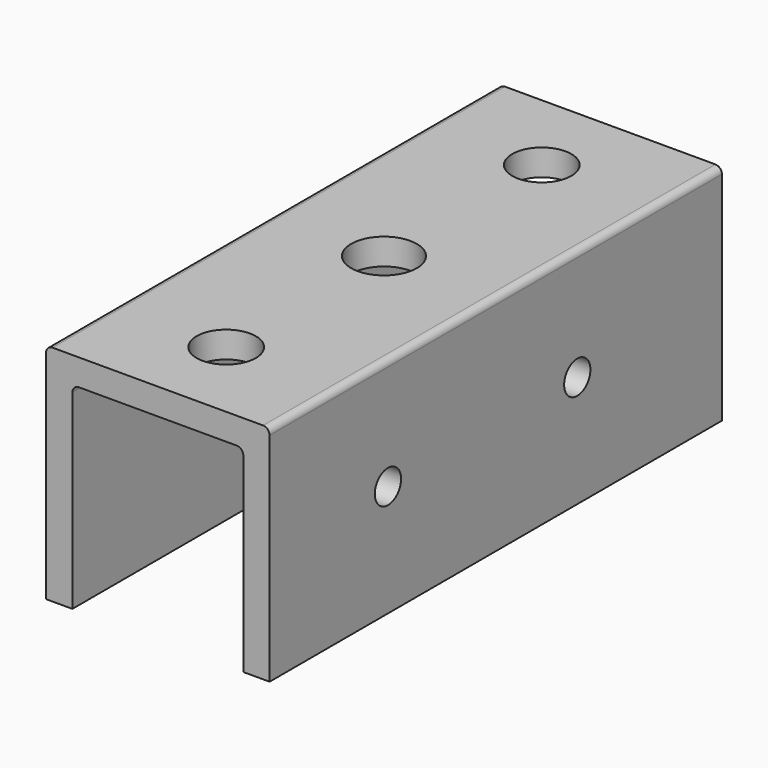
from build123d import *

# Parameters (mm, degrees)
F1_DEPTH = 68.2625
F2_R     = 7.9375
F2_R_2   = 7.14375
F2_R_3   = 7.1501
F3_DEPTH = 25.4
F4_R     = 3.96875
F5_DEPTH = 25.4


with BuildPart() as f1:
    # F0 (on Front) → F1 (new body, symmetric)
    with BuildSketch(Plane.XZ):
        with BuildLine():
            Line((-19.05, 20.6375), (19.05, 20.6375))
            ThreePointArc((19.05, 20.6375), (20.172532, 20.172532), (20.6375, 19.05))
            Line((20.6375, 19.05), (20.6375, -20.6375))
            Line((20.6375, -20.6375), (20.6375, -26.9875))
            Line((20.6375, -26.9875), (26.9875, -26.9875))
            Line((26.9875, -26.9875), (26.9875, 25.4))
            ThreePointArc((26.9875, 25.4), (26.522532, 26.522532), (25.4, 26.9875))
            Line((25.4, 26.9875), (-25.4, 26.9875))
            ThreePointArc((-25.4, 26.9875), (-26.522532, 26.522532), (-26.9875, 25.4))
            Line((-26.9875, 25.4), (-26.9875, -26.9875))
            Line((-26.9875, -26.9875), (-20.6375, -26.9875))
            Line((-20.6375, -26.9875), (-20.6375, -20.6375))
            Line((-20.6375, -20.6375), (-20.6375, 19.05))
            ThreePointArc((-20.6375, 19.05), (-20.172532, 20.172532), (-19.05, 20.6375))
        make_face()
    extrude(amount=F1_DEPTH, both=True)

    # F2 (on face) → F3 (cut)
    with BuildSketch(Plane.XY.offset(26.9875)):
        Circle(F2_R)
        with Locations((0, 47.625)):
            Circle(F2_R_2)
        with Locations((0, -47.625)):
            Circle(F2_R_3)
    extrude(amount=-F3_DEPTH, mode=Mode.SUBTRACT)

    # F4 (on face) → F5 (cut)
    with BuildSketch(Plane.YZ.offset(26.9875)):
        with Locations((-32.54375, 0)):
            Circle(F4_R)
        with Locations((24.60625, 0)):
            Circle(F4_R)
    extrude(amount=-F5_DEPTH, mode=Mode.SUBTRACT)


solid = f1.part
